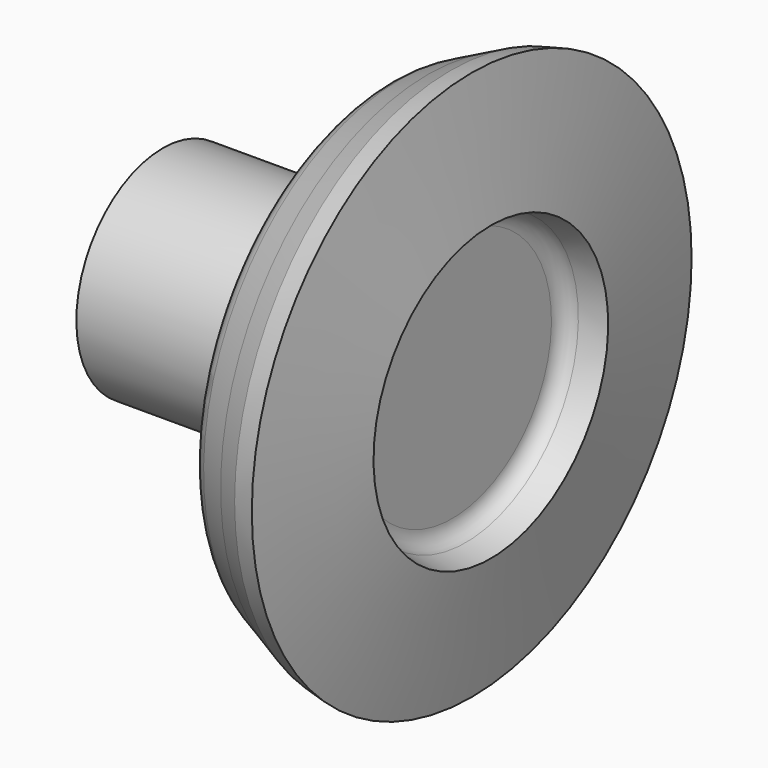
from build123d import *


with BuildPart() as f1:
    # F0 (on Front) → F1 (revolve)
    with BuildSketch(Plane.XZ):
        with BuildLine():
            Line((20, 50.594752), (20, 26))
            ThreePointArc((20, 26), (19.707107, 25.292893), (19, 25))
            Line((19, 25), (-31, 25))
            Line((-31, 25), (-31, 0))
            Line((-31, 0), (36, 0))
            Line((36, 0), (36, 28.710783))
            ThreePointArc((36, 28.710783), (36.870689, 31.202251), (39.103705, 32.609072))
            Line((39.103705, 32.609072), (44.93213, 33.949144))
            Line((44.93213, 33.949144), (40.502861, 63.620368))
            Line((40.502861, 63.620368), (35.63, 62.5))
            Line((35.63, 62.5), (30.369298, 59.975671))
            Line((30.369298, 59.975671), (23.97167, 56.905792))
            ThreePointArc((23.97167, 56.905792), (21.075546, 54.323136), (20, 50.594752))
        make_face()
    revolve(axis=Axis((2.5, 0, 0), (1, 0, 0)))


solid = f1.part
